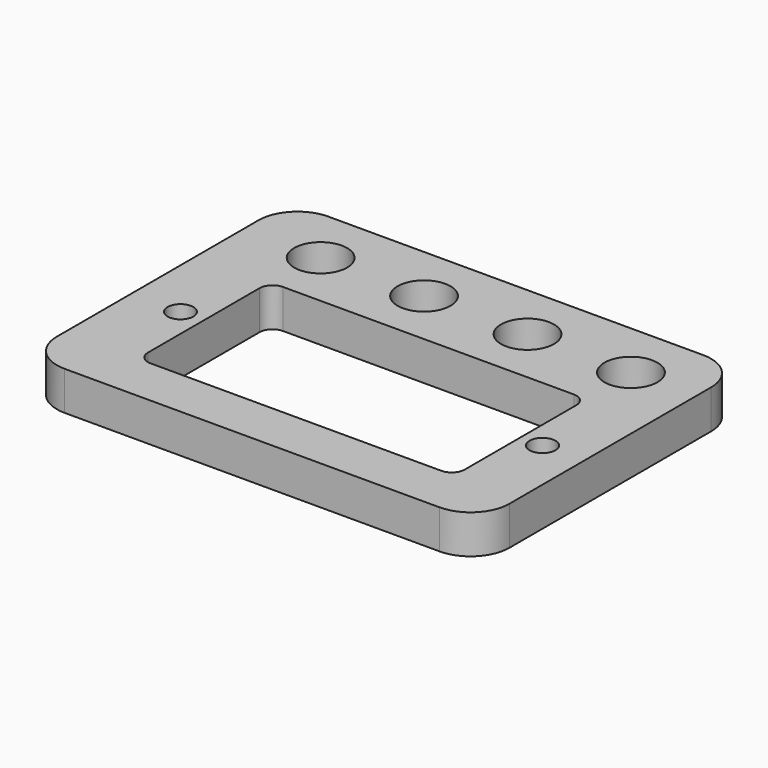
from build123d import *

# Parameters (mm, degrees)
F1_W     = 35
F1_H     = 25.5
F1_R     = 1
F1_W_2   = 24.5
F1_H_2   = 12.8
F1_R_2   = 2.05
F2_DEPTH = 3
F3_R     = 3
F4_R     = 1


with BuildPart() as f2:
    # F1 (on Top) → F2 (new body)
    with BuildSketch(Plane.XY):
        Rectangle(F1_W, F1_H)
        with Locations((-13.7, -2.55)):
            Circle(F1_R, mode=Mode.SUBTRACT)
        with Locations((0.35, -2.55)):
            Rectangle(F1_W_2, F1_H_2, mode=Mode.SUBTRACT)
        with Locations((14.3, -2.55)):
            Circle(F1_R, mode=Mode.SUBTRACT)
        with Locations((-11.5, 8.25)):
            Circle(F1_R_2, mode=Mode.SUBTRACT)
        with Locations((-3.5, 8.25)):
            Circle(F1_R_2, mode=Mode.SUBTRACT)
        with Locations((4.5, 8.25)):
            Circle(F1_R_2, mode=Mode.SUBTRACT)
        with Locations((12.5, 8.25)):
            Circle(F1_R_2, mode=Mode.SUBTRACT)
    extrude(amount=F2_DEPTH)

    # F3
    f3_edges = [f2.edges().sort_by_distance(p)[0] for p in [
        (-17.5, 12.75, 1.5),
        (17.5, 12.75, 1.5),
        (17.5, -12.75, 1.5),
        (-17.5, -12.75, 1.5),
    ]]
    fillet(f3_edges, radius=F3_R)

    # F4
    f4_edges = [f2.edges().sort_by_distance(p)[0] for p in [
        (-11.9, 3.85, 1.5),
        (12.6, 3.85, 1.5),
        (12.6, -8.95, 1.5),
        (-11.9, -8.95, 1.5),
    ]]
    fillet(f4_edges, radius=F4_R)


solid = f2.part
